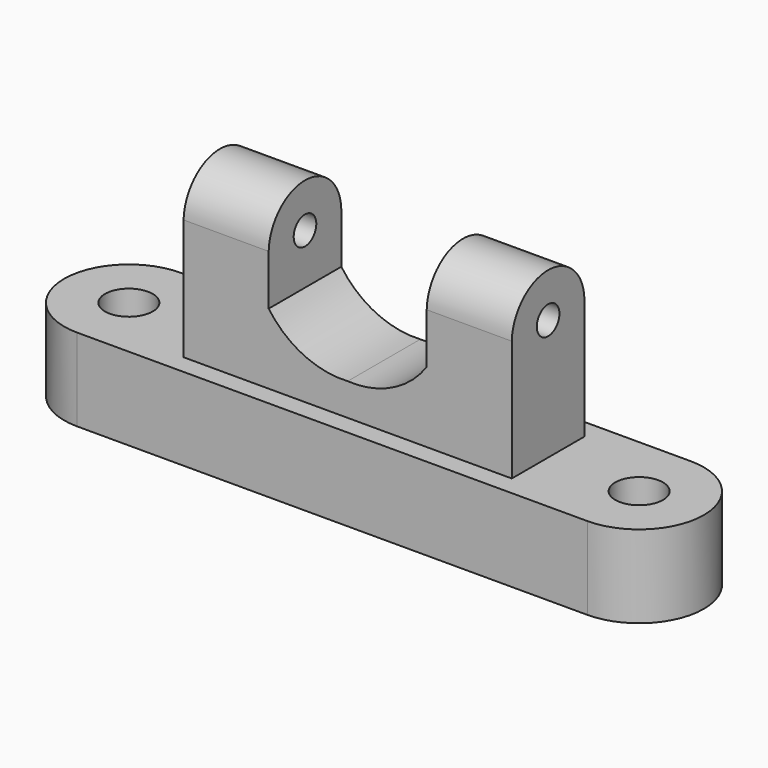
from build123d import *

# Parameters (mm, degrees)
F0_R     = 10.99825
F1_DEPTH = 38.1
F3_DEPTH = 76.2
F4_R     = 6.515774
F5_DEPTH = 223.248987
F7_DEPTH = 50.806747


with BuildPart() as f1:
    # F0 (on Top) → F1 (new body)
    with BuildSketch(Plane.XY):
        with BuildLine():
            Line((117.679015, 29.866867), (0, 29.866867))
            Line((0, 29.866867), (-117.679015, 29.866867))
            ThreePointArc((-117.679015, 29.866867), (-147.545878, 4e-06), (-117.679015, -29.866859))
            Line((-117.679015, -29.866859), (0, -29.866859))
            Line((0, -29.866859), (117.679015, -29.866859))
            ThreePointArc((117.679015, -29.866859), (147.545878, 4e-06), (117.679015, 29.866867))
        make_face()
        with Locations((-117.679015, 4e-06)):
            Circle(F0_R, mode=Mode.SUBTRACT)
        with Locations((117.679015, 4e-06)):
            Circle(F0_R, mode=Mode.SUBTRACT)
    extrude(amount=F1_DEPTH)

    # F2 (on face) → F3 (join)
    with BuildSketch(Plane.XY.offset(38.1)):
        Polygon((0, 20.938881), (-75.702109, 20.938881), (-75.702109, -20.938881), (0, -20.938881), (75.702109, -20.938881), (75.702109, 20.938881), align=None)
    extrude(amount=F3_DEPTH)

    # F4 (on face) → F5 (cut, through all)
    with BuildSketch(Plane(origin=(-75.702109, 0, 0), x_dir=(0, -1, 0), z_dir=(-1, 0, 0))):
        with Locations((0, 93.864545)):
            Circle(F4_R)
        with BuildLine():
            ThreePointArc((-20.938881, 93.864545), (0, 114.228876), (20.938881, 93.864545))
            Line((20.938881, 93.864545), (20.938881, 114.3))
            Line((20.938881, 114.3), (-20.938881, 114.3))
            Line((-20.938881, 114.3), (-20.938881, 93.864545))
        make_face()
    extrude(amount=-F5_DEPTH, mode=Mode.SUBTRACT)

    # F6 (on face) → F7 (cut, through all)
    with BuildSketch(Plane.XZ.offset(20.938881)):
        with BuildLine():
            Line((36.444344, 70.606232), (36.444344, 114.3))
            Line((36.444344, 114.3), (-36.444344, 114.3))
            Line((-36.444344, 114.3), (-36.444344, 70.606232))
            ThreePointArc((-36.444344, 70.606232), (-20.505249, 57.076184), (0, 52.995533))
            ThreePointArc((0, 52.995533), (20.505249, 57.076184), (36.444344, 70.606232))
        make_face()
    extrude(amount=-F7_DEPTH, mode=Mode.SUBTRACT)


solid = f1.part
